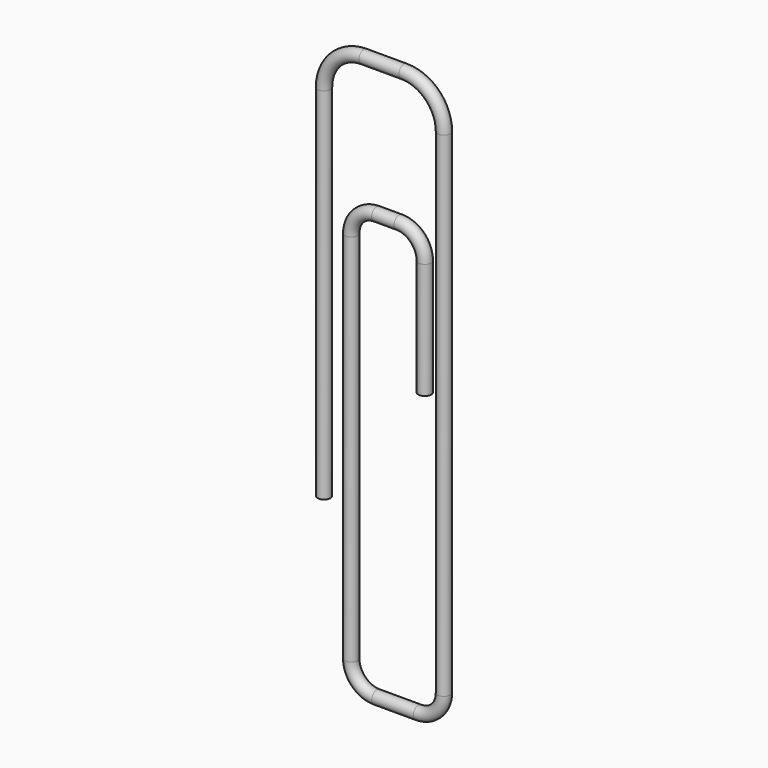
from build123d import *

# Parameters (mm, degrees)
F2_R = 0.508


with BuildPart() as f3:
    # F3: sweep along a path in F0
    with BuildLine(Plane.XZ) as f3_path:
        Line((-1.524, 22.540981507), (-1.524, 30.4797520154))
        Line((-1.524, 30.4797520154), (-1.524, 31.75))
        ThreePointArc((-1.524, 31.75), (-2.1191590206, 33.1868409794), (-3.556, 33.782))
        Line((-3.556, 33.782), (-5.334, 33.782))
        ThreePointArc((-5.334, 33.782), (-6.7708409794, 33.1868409794), (-7.366, 31.75))
        Line((-7.366, 31.75), (-7.366, 2.032))
        ThreePointArc((-7.366, 2.032), (-6.7708409794, 0.5951590206), (-5.334, 0))
        Line((-5.334, 0), (-2.032, 0))
        ThreePointArc((-2.032, 0), (-0.5951590206, 0.5951590206), (0, 2.032))
        Line((0, 2.032), (0, 38.1011824323))
        Line((0, 38.1011824323), (0, 41.2755912162))
        ThreePointArc((0, 41.2755912162), (-0.9297269335, 43.5204461908), (-3.1744087288, 44.4505911611))
        Line((-3.1744087288, 44.4505911611), (-6.3494085636, 44.4511824323))
        ThreePointArc((-6.3494085636, 44.4511824323), (-8.5948548094, 43.5214555538), (-9.5249998348, 41.2761824874))
        Line((-9.5249998348, 41.2761824874), (-9.5249998348, 12.7011824874))
    # F2 (on plane+point) → F3 (sweep)
    with BuildSketch(Plane.XY.offset(12.7011824874)):
        with Locations((-9.5249998348, 0)):
            Circle(F2_R)
    sweep(path=f3_path.line)


solid = f3.part
